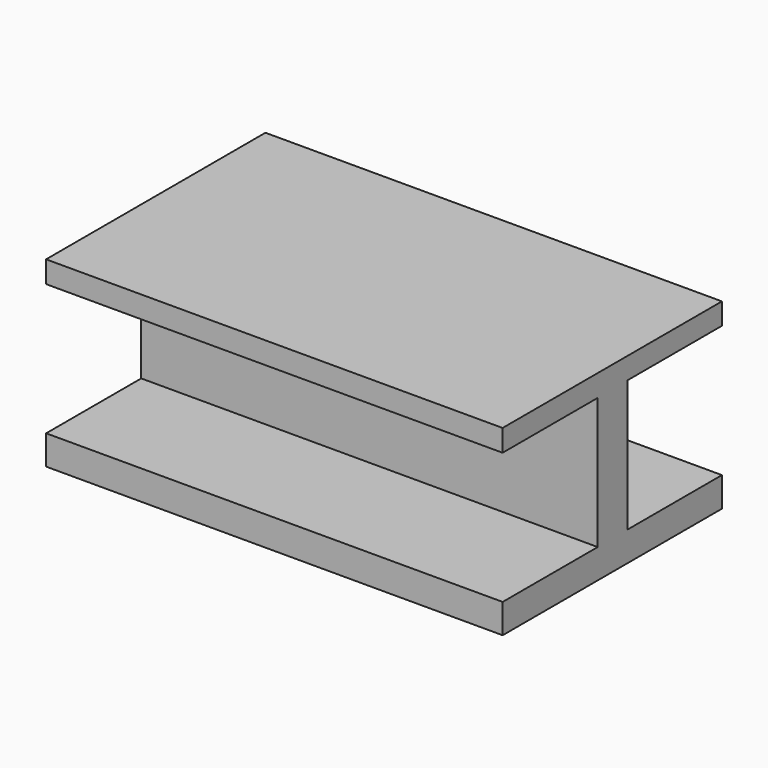
from build123d import *

# Parameters (mm, degrees)
PAD_DEPTH = 100


with BuildPart() as part:
    # Sketch → Pad (new body)
    with BuildSketch(Plane.YZ):
        Polygon((-30.04999, 0), (29.988436, 0), (29.988436, 6.484765), (4.088979, 6.484765), (4.088979, 35.272057), (29.985703, 35.272057), (29.985703, 39.984997), (-30.064808, 39.984997), (-30.064808, 35.199318), (-4.016708, 35.199318), (-4.016708, 6.430613), (-30.04999, 6.430613), align=None)
    extrude(amount=PAD_DEPTH)


solid = part.part
